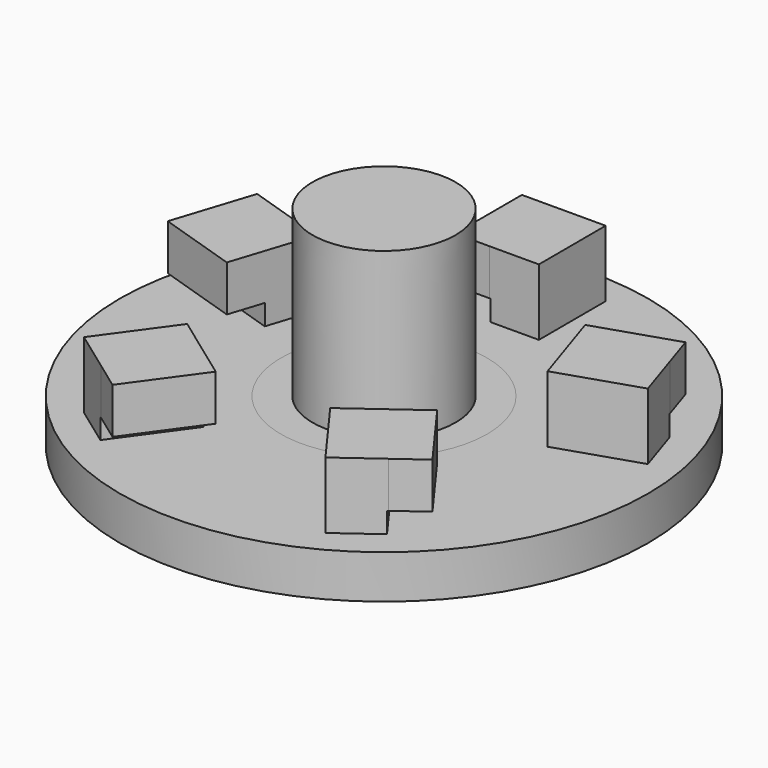
from build123d import *

# Parameters (mm, degrees)
F1_DEPTH  = 16.2
F0_R      = 23.05
F2_DEPTH  = 3.8
F3_DEPTH  = 1.5
F4_DEPTH  = 3.8
F5_R      = 6.25
F6_DEPTH  = 2
F7_DEPTH  = 9.6
F8_W      = 1.6
F8_H      = 5.8
F9_DEPTH  = 5.4
F8_W_2    = 7.3
F10_DEPTH = 4.3
F12_DEPTH = 7.3
F11_W     = 2.4
F11_H     = 4
F13_DEPTH = 7.3
F14_W     = 1.6
F14_H     = 5.8
F15_DEPTH = 5.4
F16_DEPTH = 4.3
F17_W     = 2.4
F17_H     = 4
F18_DEPTH = 7.3
F19_W     = 1.6
F19_H     = 5.8
F20_DEPTH = 5.4
F19_W_2   = 7.3
F21_DEPTH = 4.3
F22_W     = 2.4
F22_H     = 4
F23_DEPTH = 7.3
F24_W     = 1.6
F24_H     = 5.8
F25_DEPTH = 5.4
F26_DEPTH = 4.3
F27_W     = 2.4
F27_H     = 4
F28_DEPTH = 7.3
F29_W     = 1.6
F29_H     = 5.8
F30_DEPTH = 5.4
F31_DEPTH = 4.3
F32_W     = 2.4
F32_H     = 4
F33_DEPTH = 7.3


with BuildPart() as f1:
    # F0 (on Top) → F1 (new body)
    with BuildSketch(Plane.XY):
        with BuildLine():
            Line((2.62206635, 1.633340396), (5.3049401224, 3.3045590171))
            ThreePointArc((5.3049401224, 3.3045590171), (2.3494156576, 5.791609972), (-1.5035057347, 6.0664627672))
            Line((-1.5035057347, 6.0664627672), (-0.8539912573, 3.4457508518))
            ThreePointArc((-0.8539912573, 3.4457508518), (1.0288359447, 3.3976457436), (2.62206635, 2.3931711297))
            Line((2.62206635, 2.3931711297), (2.62206635, 1.633340396))
        make_face()
        with BuildLine():
            Line((-0.8539912573, 3.4457508518), (-1.5035057347, 6.0664627672))
            ThreePointArc((-1.5035057347, 6.0664627672), (-4.7821390387, 4.0241329768), (-6.2341577688, 0.4447211645))
            Line((-6.2341577688, 0.4447211645), (-2.5880055924, 0.1846185008))
            Line((-2.5880055924, 0.1846185008), (-2.5880055924, 2.4299644141))
            ThreePointArc((-2.5880055924, 2.4299644141), (-1.7943776359, 3.0631207779), (-0.8539912573, 3.4457508518))
        make_face()
        with BuildLine():
            ThreePointArc((-6.2341577688, 0.4447211645), (-5.3049401224, -3.3045590171), (-2.3494156576, -5.791609972))
            Line((-2.3494156576, -5.791609972), (-1.3344680935, -3.2896344641))
            ThreePointArc((-1.3344680935, -3.2896344641), (-2.0077868669, -2.9276768772), (-2.5880055924, -2.4299644141))
            Line((-2.5880055924, -2.4299644141), (-2.5880055924, 0.1846185008))
            Line((-2.5880055924, 0.1846185008), (-6.2341577688, 0.4447211645))
        make_face()
        with BuildLine():
            ThreePointArc((-2.3494156576, -5.791609972), (1.5035057347, -6.0664627672), (4.7821390387, -4.0241329768))
            Line((4.7821390387, -4.0241329768), (2.62206635, -2.206448533))
            Line((2.62206635, -2.206448533), (2.62206635, -2.3931711297))
            ThreePointArc((2.62206635, -2.3931711297), (0.7844673002, -3.4622407564), (-1.3344680935, -3.2896344641))
            Line((-1.3344680935, -3.2896344641), (-2.3494156576, -5.791609972))
        make_face()
        with BuildLine():
            ThreePointArc((4.7821390387, -4.0241329768), (5.8715785353, -2.1417435664), (6.25, 0))
            ThreePointArc((6.25, 0), (6.0090921014, 1.7185203279), (5.3049401224, 3.3045590171))
            Line((5.3049401224, 3.3045590171), (2.62206635, 1.633340396))
            Line((2.62206635, 1.633340396), (2.62206635, -2.206448533))
            Line((2.62206635, -2.206448533), (4.7821390387, -4.0241329768))
        make_face()
        with BuildLine():
            Line((2.62206635, 1.633340396), (5.3049401224, 3.3045590171))
            ThreePointArc((5.3049401224, 3.3045590171), (2.3494156576, 5.791609972), (-1.5035057347, 6.0664627672))
            Line((-1.5035057347, 6.0664627672), (-0.8539912573, 3.4457508518))
            ThreePointArc((-0.8539912573, 3.4457508518), (1.0288359447, 3.3976457436), (2.62206635, 2.3931711297))
            Line((2.62206635, 2.3931711297), (2.62206635, 1.633340396))
        make_face()
        with BuildLine():
            Line((-0.8539912573, 3.4457508518), (-1.5035057347, 6.0664627672))
            ThreePointArc((-1.5035057347, 6.0664627672), (-4.7821390387, 4.0241329768), (-6.2341577688, 0.4447211645))
            Line((-6.2341577688, 0.4447211645), (-2.5880055924, 0.1846185008))
            Line((-2.5880055924, 0.1846185008), (-2.5880055924, 2.4299644141))
            ThreePointArc((-2.5880055924, 2.4299644141), (-1.7943776359, 3.0631207779), (-0.8539912573, 3.4457508518))
        make_face()
        with BuildLine():
            ThreePointArc((-6.2341577688, 0.4447211645), (-5.3049401224, -3.3045590171), (-2.3494156576, -5.791609972))
            Line((-2.3494156576, -5.791609972), (-1.3344680935, -3.2896344641))
            ThreePointArc((-1.3344680935, -3.2896344641), (-2.0077868669, -2.9276768772), (-2.5880055924, -2.4299644141))
            Line((-2.5880055924, -2.4299644141), (-2.5880055924, 0.1846185008))
            Line((-2.5880055924, 0.1846185008), (-6.2341577688, 0.4447211645))
        make_face()
        with BuildLine():
            ThreePointArc((-2.3494156576, -5.791609972), (1.5035057347, -6.0664627672), (4.7821390387, -4.0241329768))
            Line((4.7821390387, -4.0241329768), (2.62206635, -2.206448533))
            Line((2.62206635, -2.206448533), (2.62206635, -2.3931711297))
            ThreePointArc((2.62206635, -2.3931711297), (0.7844673002, -3.4622407564), (-1.3344680935, -3.2896344641))
            Line((-1.3344680935, -3.2896344641), (-2.3494156576, -5.791609972))
        make_face()
    extrude(amount=F1_DEPTH)

    # F5 (on face) → F6 (join)
    with BuildSketch(Plane.XY.offset(16.2)):
        Circle(F5_R)
        with BuildLine():
            ThreePointArc((2.62206635, -2.3931711297), (0.0250693088, -3.549911482), (-2.5880055924, -2.4299644141))
            Line((-2.5880055924, -2.4299644141), (-2.5880055924, 2.4299644141))
            ThreePointArc((-2.5880055924, 2.4299644141), (0.0250693088, 3.549911482), (2.62206635, 2.3931711297))
            Line((2.62206635, 2.3931711297), (2.62206635, -2.3931711297))
        make_face(mode=Mode.SUBTRACT)
        with BuildLine():
            Line((-2.5880055924, 2.4299644141), (-2.5880055924, -2.4299644141))
            ThreePointArc((-2.5880055924, -2.4299644141), (0.0250693088, -3.549911482), (2.62206635, -2.3931711297))
            Line((2.62206635, -2.3931711297), (2.62206635, 2.3931711297))
            ThreePointArc((2.62206635, 2.3931711297), (0.0250693088, 3.549911482), (-2.5880055924, 2.4299644141))
        make_face()
    extrude(amount=F6_DEPTH)


with BuildPart() as f2:
    # F0 (on Top) → F2 (new body)
    with BuildSketch(Plane.XY):
        Circle(F0_R)
        Polygon((-5.7372268782, -9.9950321736), (-4.436474094, -10.9364758511), (-1.3627715174, -13.161124449), (-6.5809606379, -20.370874951), (-10.9554159987, -17.2047826756), align=None, mode=Mode.SUBTRACT)
        Polygon((7.7329398733, -8.5450618089), (9.0302607334, -7.5988944931), (12.0958536107, -5.3630838516), (17.3402246884, -12.5538120484), (12.977310951, -15.7357900056), align=None, mode=Mode.SUBTRACT)
        Polygon((-11.2787410852, 2.367792207), (-11.7721525137, 0.8397806999), (-12.9380927273, -2.770938388), (-21.4074820413, -0.036081052), (-19.7481303992, 5.102649543), align=None, mode=Mode.SUBTRACT)
        Polygon((-1.2334184628, 11.4584082358), (-2.8391162802, 11.4554888668), (-6.6334095377, 11.4485903445), (-6.6495908771, 20.3485756346), (-1.2495998022, 20.3583935259), align=None, mode=Mode.SUBTRACT)
        with BuildLine():
            ThreePointArc((-2.165048258, 8.7357063847), (3.3831585469, 8.3399183597), (7.6391137763, 4.7585649846))
            ThreePointArc((7.6391137763, 4.7585649846), (8.6530926259, 2.4746692722), (9, 0))
            ThreePointArc((9, 0), (8.4550730908, -3.0841107356), (6.8862802157, -5.7947514866))
            ThreePointArc((6.8862802157, -5.7947514866), (2.165048258, -8.7357063847), (-3.3831585469, -8.3399183597))
            ThreePointArc((-3.3831585469, -8.3399183597), (-7.6391137763, -4.7585649846), (-8.977187187, 0.6403984769))
            ThreePointArc((-8.977187187, 0.6403984769), (-6.8862802157, 5.7947514866), (-2.165048258, 8.7357063847))
        make_face(mode=Mode.SUBTRACT)
        Polygon((10.5164465528, 4.7138935397), (10.0174821545, 6.2401007775), (8.8384201717, 9.8465563442), (17.2978088679, 12.6121924168), (18.9758352491, 7.4795296123), align=None, mode=Mode.SUBTRACT)
    extrude(amount=F2_DEPTH)

    # F0 (on Top) → F7 (join)
    with BuildSketch(Plane.XY):
        Polygon((-21.4074820413, -0.036081052), (-12.9380927273, -2.770938388), (-16.3431115632, 1.1658555775), align=None)
        Polygon((-12.9380927273, -2.770938388), (-11.7721525137, 0.8397806999), (-16.3431115632, 1.1658555775), align=None)
        Polygon((-21.4074820413, -0.036081052), (-16.3431115632, 1.1658555775), (-19.7481303992, 5.102649543), align=None)
        Polygon((-16.3431115632, 1.1658555775), (-11.2787410852, 2.367792207), (-19.7481303992, 5.102649543), align=None)
        Polygon((-16.3431115632, 1.1658555775), (-11.7721525137, 0.8397806999), (-11.2787410852, 2.367792207), align=None)
        Polygon((-6.5809606379, -20.370874951), (-6.1590937581, -15.1829535623), (-10.9554159987, -17.2047826756), align=None)
        Polygon((-6.1590937581, -15.1829535623), (-5.7372268782, -9.9950321736), (-10.9554159987, -17.2047826756), align=None)
        Polygon((-6.5809606379, -20.370874951), (-1.3627715174, -13.161124449), (-6.1590937581, -15.1829535623), align=None)
        Polygon((-1.3627715174, -13.161124449), (-4.436474094, -10.9364758511), (-6.1590937581, -15.1829535623), align=None)
        Polygon((-6.1590937581, -15.1829535623), (-4.436474094, -10.9364758511), (-5.7372268782, -9.9950321736), align=None)
        Polygon((12.5365822809, -10.5494369286), (7.7329398733, -8.5450618089), (12.977310951, -15.7357900056), align=None)
        Polygon((17.3402246884, -12.5538120484), (12.5365822809, -10.5494369286), (12.977310951, -15.7357900056), align=None)
        Polygon((17.3402246884, -12.5538120484), (12.0958536107, -5.3630838516), (12.5365822809, -10.5494369286), align=None)
        Polygon((12.0958536107, -5.3630838516), (9.0302607334, -7.5988944931), (12.5365822809, -10.5494369286), align=None)
        Polygon((12.5365822809, -10.5494369286), (9.0302607334, -7.5988944931), (7.7329398733, -8.5450618089), align=None)
        Polygon((13.9071277104, 8.6630429782), (10.5164465528, 4.7138935397), (18.9758352491, 7.4795296123), align=None)
        Polygon((13.9071277104, 8.6630429782), (10.0174821545, 6.2401007775), (10.5164465528, 4.7138935397), align=None)
        Polygon((8.8384201717, 9.8465563442), (10.0174821545, 6.2401007775), (13.9071277104, 8.6630429782), align=None)
        Polygon((17.2978088679, 12.6121924168), (8.8384201717, 9.8465563442), (13.9071277104, 8.6630429782), align=None)
        Polygon((17.2978088679, 12.6121924168), (13.9071277104, 8.6630429782), (18.9758352491, 7.4795296123), align=None)
        Polygon((-6.6334095377, 11.4485903445), (-2.8391162802, 11.4554888668), (-3.94150467, 15.9034919352), align=None)
        Polygon((-3.94150467, 15.9034919352), (-2.8391162802, 11.4554888668), (-1.2334184628, 11.4584082358), align=None)
        Polygon((-3.94150467, 15.9034919352), (-1.2334184628, 11.4584082358), (-1.2495998022, 20.3583935259), align=None)
        Polygon((-6.6495908771, 20.3485756346), (-3.94150467, 15.9034919352), (-1.2495998022, 20.3583935259), align=None)
        Polygon((-6.6495908771, 20.3485756346), (-6.6334095377, 11.4485903445), (-3.94150467, 15.9034919352), align=None)
    extrude(amount=F7_DEPTH)

    # F8 (on face) → F9 (cut)
    with BuildSketch(Plane(origin=(-0.3726115815, -1.1539148696, 0), x_dir=(-0.9516167768, 0.3072873411, 0), z_dir=(0.3072873411, 0.9516167768, 0))):
        with Locations((12.2606318101, 6.7)):
            Rectangle(F8_W, F8_H)
    extrude(amount=-F9_DEPTH, mode=Mode.SUBTRACT)

    # F8 (on face) → F10 (join)
    with BuildSketch(Plane(origin=(-0.3726115815, -1.1539148696, 0), x_dir=(-0.9516167768, 0.3072873411, 0), z_dir=(0.3072873411, 0.9516167768, 0))):
        with Locations((16.7106318101, 6.7)):
            Rectangle(F8_W_2, F8_H)
    extrude(amount=F10_DEPTH)

    # F11 (on face) → F12 (cut)
    with BuildSketch(Plane(origin=(-19.3755188177, 6.2565644126, 0), x_dir=(-0.3072873411, -0.9516167768, 0), z_dir=(-0.9516167768, 0.3072873411, 0))):
        Polygon((1.1125835711, 3.8), (6.6125835711, 3.8), (6.6125835711, 5.6), (4.2125835711, 5.6), (1.1125835711, 5.6), align=None)
    extrude(amount=-F12_DEPTH, mode=Mode.SUBTRACT)

    # F11 (on face) → F13 (cut)
    with BuildSketch(Plane(origin=(-19.3755188177, 6.2565644126, 0), x_dir=(-0.3072873411, -0.9516167768, 0), z_dir=(-0.9516167768, 0.3072873411, 0))):
        with Locations((5.4125835711, 7.6)):
            Rectangle(F11_W, F11_H)
    extrude(amount=-F13_DEPTH, mode=Mode.SUBTRACT)

    # F14 (on face) → F15 (cut)
    with BuildSketch(Plane(origin=(-1.2125815669, -0.0022046322, 0), x_dir=(-0.001818128, 0.9999983472, 0), z_dir=(0.9999983472, 0.001818128, 0))):
        with Locations((12.2606318101, 6.7)):
            Rectangle(F14_W, F14_H)
    extrude(amount=-F15_DEPTH, mode=Mode.SUBTRACT)

    # F16 (add): a face of the model
    f16_faces = [f2.faces().sort_by_distance(p)[0] for p in [
        (-1.2429636349, 16.7083995586, 6.7),
    ]]
    extrude(f16_faces, amount=F16_DEPTH)

    # F17 (on face) → F18 (cut)
    with BuildSketch(Plane(origin=(-0.0370182353, 20.3605981581, 0), x_dir=(-0.9999983472, -0.001818128, 0), z_dir=(-0.001818128, 0.9999983472, 0))):
        Polygon((1.1125835711, 3.8), (6.6125835711, 3.8), (6.6125835711, 5.6), (4.2125835711, 5.6), (1.1125835711, 5.6), align=None)
        with Locations((5.4125835711, 7.6)):
            Rectangle(F17_W, F17_H)
    extrude(amount=-F18_DEPTH, mode=Mode.SUBTRACT)

    # F19 (on face) → F20 (cut)
    with BuildSketch(Plane(origin=(-0.376805041, 1.152552332, 0), x_dir=(0.9504931119, 0.3107456261, 0), z_dir=(0.3107456261, -0.9504931119, 0))):
        with Locations((12.2606318101, 6.7)):
            Rectangle(F19_W, F19_H)
    extrude(amount=-F20_DEPTH, mode=Mode.SUBTRACT)

    # F19 (on face) → F21 (join)
    with BuildSketch(Plane(origin=(-0.376805041, 1.152552332, 0), x_dir=(0.9504931119, 0.3107456261, 0), z_dir=(0.3107456261, -0.9504931119, 0))):
        with Locations((16.7106318101, 6.7)):
            Rectangle(F19_W_2, F19_H)
    extrude(amount=F21_DEPTH)

    # F22 (on face) → F23 (cut)
    with BuildSketch(Plane(origin=(19.3526402901, 6.3269772804, 0), x_dir=(-0.3107456261, 0.9504931119, 0), z_dir=(0.9504931119, 0.3107456261, 0))):
        with Locations((5.4125835711, 7.6)):
            Rectangle(F22_W, F22_H)
        Polygon((1.1125835711, 3.8), (6.6125835711, 3.8), (6.6125835711, 5.6), (4.2125835711, 5.6), (1.1125835711, 5.6), align=None)
    extrude(amount=-F23_DEPTH, mode=Mode.SUBTRACT)

    # F24 (on face) → F25 (cut)
    with BuildSketch(Plane(origin=(0.9797032444, 0.7145211471, 0), x_dir=(0.5892551773, -0.8079469884, 0), z_dir=(-0.8079469884, -0.5892551773, 0))):
        with Locations((12.2606318101, 6.7)):
            Rectangle(F24_W, F24_H)
    extrude(amount=-F25_DEPTH, mode=Mode.SUBTRACT)

    # F26 (add): a face of the model
    f26_faces = [f2.faces().sort_by_distance(p)[0] for p in [
        (10.826529554, -12.786783498, 6.7),
    ]]
    extrude(f26_faces, amount=F26_DEPTH)

    # F27 (on face) → F28 (cut)
    with BuildSketch(Plane(origin=(11.9976077066, -16.4503111528, 0), x_dir=(0.8079469884, 0.5892551773, 0), z_dir=(0.5892551773, -0.8079469884, 0))):
        with Locations((5.4125835711, 7.6)):
            Rectangle(F27_W, F27_H)
        Polygon((1.1125835711, 3.8), (6.6125835711, 3.8), (6.6125835711, 5.6), (4.2125835711, 5.6), (1.1125835711, 5.6), align=None)
    extrude(amount=-F28_DEPTH, mode=Mode.SUBTRACT)

    # F29 (on face) → F30 (cut)
    with BuildSketch(Plane(origin=(0.982294945, -0.7109539774, 0), x_dir=(-0.5863133843, -0.8100843261, 0), z_dir=(-0.8100843261, 0.5863133843, 0))):
        with Locations((12.2606318101, 6.7)):
            Rectangle(F29_W, F29_H)
    extrude(amount=-F30_DEPTH, mode=Mode.SUBTRACT)

    # F31 (add): a face of the model
    f31_faces = [f2.faces().sort_by_distance(p)[0] for p in [
        (-8.8153721459, -14.2479748855, 6.7),
    ]]
    extrude(f31_faces, amount=F31_DEPTH)

    # F32 (on face) → F33 (cut)
    with BuildSketch(Plane(origin=(-11.9377109437, -16.4938286983, 0), x_dir=(0.8100843261, -0.5863133843, 0), z_dir=(-0.5863133843, -0.8100843261, 0))):
        with Locations((5.4125835711, 7.6)):
            Rectangle(F32_W, F32_H)
        Polygon((1.1125835711, 3.8), (6.6125835711, 3.8), (6.6125835711, 5.6), (4.2125835711, 5.6), (1.1125835711, 5.6), align=None)
    extrude(amount=-F33_DEPTH, mode=Mode.SUBTRACT)


with BuildPart() as f3:
    # F0 (on Top) → F3 (new body)
    with BuildSketch(Plane.XY):
        with BuildLine():
            ThreePointArc((-1.5035057347, 6.0664627672), (2.3494156576, 5.791609972), (5.3049401224, 3.3045590171))
            Line((5.3049401224, 3.3045590171), (7.6391137763, 4.7585649846))
            ThreePointArc((7.6391137763, 4.7585649846), (3.3831585469, 8.3399183597), (-2.165048258, 8.7357063847))
            Line((-2.165048258, 8.7357063847), (-1.5035057347, 6.0664627672))
        make_face()
        with BuildLine():
            ThreePointArc((-6.2341577688, 0.4447211645), (-4.7821390387, 4.0241329768), (-1.5035057347, 6.0664627672))
            Line((-1.5035057347, 6.0664627672), (-2.165048258, 8.7357063847))
            ThreePointArc((-2.165048258, 8.7357063847), (-6.8862802157, 5.7947514866), (-8.977187187, 0.6403984769))
            Line((-8.977187187, 0.6403984769), (-6.2341577688, 0.4447211645))
        make_face()
        with BuildLine():
            Line((-3.3831585469, -8.3399183597), (-2.3494156576, -5.791609972))
            ThreePointArc((-2.3494156576, -5.791609972), (-5.3049401224, -3.3045590171), (-6.2341577688, 0.4447211645))
            Line((-6.2341577688, 0.4447211645), (-8.977187187, 0.6403984769))
            ThreePointArc((-8.977187187, 0.6403984769), (-7.6391137763, -4.7585649846), (-3.3831585469, -8.3399183597))
        make_face()
        with BuildLine():
            Line((6.8862802157, -5.7947514866), (4.7821390387, -4.0241329768))
            ThreePointArc((4.7821390387, -4.0241329768), (1.5035057347, -6.0664627672), (-2.3494156576, -5.791609972))
            Line((-2.3494156576, -5.791609972), (-3.3831585469, -8.3399183597))
            ThreePointArc((-3.3831585469, -8.3399183597), (2.165048258, -8.7357063847), (6.8862802157, -5.7947514866))
        make_face()
        with BuildLine():
            ThreePointArc((5.3049401224, 3.3045590171), (6.0090921014, 1.7185203279), (6.25, 0))
            ThreePointArc((6.25, 0), (5.8715785353, -2.1417435664), (4.7821390387, -4.0241329768))
            Line((4.7821390387, -4.0241329768), (6.8862802157, -5.7947514866))
            ThreePointArc((6.8862802157, -5.7947514866), (8.4550730908, -3.0841107356), (9, 0))
            ThreePointArc((9, 0), (8.6530926259, 2.4746692722), (7.6391137763, 4.7585649846))
            Line((7.6391137763, 4.7585649846), (5.3049401224, 3.3045590171))
        make_face()
    extrude(amount=-F3_DEPTH)


with BuildPart() as f4:
    # F0 (on Top) → F4 (new body)
    with BuildSketch(Plane.XY):
        with BuildLine():
            ThreePointArc((-1.5035057347, 6.0664627672), (2.3494156576, 5.791609972), (5.3049401224, 3.3045590171))
            Line((5.3049401224, 3.3045590171), (7.6391137763, 4.7585649846))
            ThreePointArc((7.6391137763, 4.7585649846), (3.3831585469, 8.3399183597), (-2.165048258, 8.7357063847))
            Line((-2.165048258, 8.7357063847), (-1.5035057347, 6.0664627672))
        make_face()
        with BuildLine():
            ThreePointArc((-6.2341577688, 0.4447211645), (-4.7821390387, 4.0241329768), (-1.5035057347, 6.0664627672))
            Line((-1.5035057347, 6.0664627672), (-2.165048258, 8.7357063847))
            ThreePointArc((-2.165048258, 8.7357063847), (-6.8862802157, 5.7947514866), (-8.977187187, 0.6403984769))
            Line((-8.977187187, 0.6403984769), (-6.2341577688, 0.4447211645))
        make_face()
        with BuildLine():
            Line((-3.3831585469, -8.3399183597), (-2.3494156576, -5.791609972))
            ThreePointArc((-2.3494156576, -5.791609972), (-5.3049401224, -3.3045590171), (-6.2341577688, 0.4447211645))
            Line((-6.2341577688, 0.4447211645), (-8.977187187, 0.6403984769))
            ThreePointArc((-8.977187187, 0.6403984769), (-7.6391137763, -4.7585649846), (-3.3831585469, -8.3399183597))
        make_face()
        with BuildLine():
            Line((6.8862802157, -5.7947514866), (4.7821390387, -4.0241329768))
            ThreePointArc((4.7821390387, -4.0241329768), (1.5035057347, -6.0664627672), (-2.3494156576, -5.791609972))
            Line((-2.3494156576, -5.791609972), (-3.3831585469, -8.3399183597))
            ThreePointArc((-3.3831585469, -8.3399183597), (2.165048258, -8.7357063847), (6.8862802157, -5.7947514866))
        make_face()
        with BuildLine():
            ThreePointArc((5.3049401224, 3.3045590171), (6.0090921014, 1.7185203279), (6.25, 0))
            ThreePointArc((6.25, 0), (5.8715785353, -2.1417435664), (4.7821390387, -4.0241329768))
            Line((4.7821390387, -4.0241329768), (6.8862802157, -5.7947514866))
            ThreePointArc((6.8862802157, -5.7947514866), (8.4550730908, -3.0841107356), (9, 0))
            ThreePointArc((9, 0), (8.6530926259, 2.4746692722), (7.6391137763, 4.7585649846))
            Line((7.6391137763, 4.7585649846), (5.3049401224, 3.3045590171))
        make_face()
    extrude(amount=F4_DEPTH)


solid = Compound([f1.part, f2.part, f3.part, f4.part])
